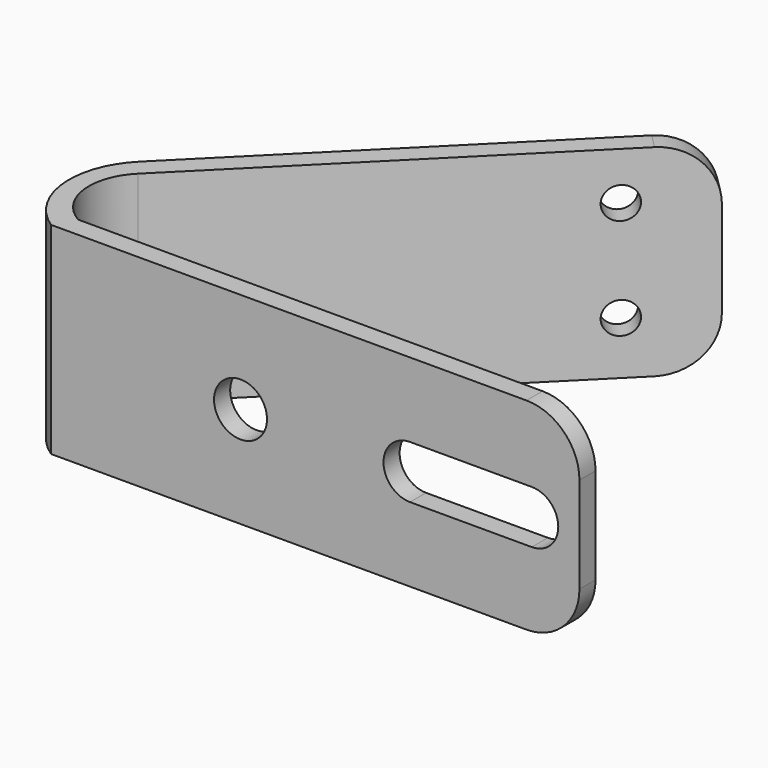
from build123d import *

# Parameters (mm, degrees)
F1_DEPTH = 190.5
F2_R     = 50
F3_R     = 15
F4_DEPTH = 101.6
F5_R     = 25
F6_DEPTH = 101.6


with BuildPart() as f1:
    # F0 (on Top) → F1 (new body)
    with BuildSketch(Plane.XY):
        with BuildLine():
            Line((7.8734308481, 0), (-480.600476265, 0))
            ThreePointArc((-480.600476265, 0), (-507.3725322107, 39.5160081985), (-492.1265691519, 84.7467333078))
            Line((-492.1265691519, 84.7467333078), (-185.7195747427, 391.1537277171))
            Line((-185.7195747427, 391.1537277171), (-199.1546035852, 404.5887565596))
            Line((-199.1546035852, 404.5887565596), (-503.0509646748, 100.69239547))
            ThreePointArc((-503.0509646748, 100.69239547), (-525.4247574788, 38.0082411155), (-491.0743534565, -19))
            Line((-491.0743534565, -19), (7.8734308481, -19))
            Line((7.8734308481, -19), (7.8734308481, 0))
        make_face()
    extrude(amount=F1_DEPTH)

    # F2
    f2_edges = [f1.edges().sort_by_distance(p)[0] for p in [
        (-192.437089, 397.871242, 190.5),
        (-192.437089, 397.871242, 0),
        (7.873431, -9.5, 190.5),
        (7.873431, -9.5, 0),
    ]]
    fillet(f2_edges, radius=F2_R)

    # F3 (on face) → F4 (cut)
    with BuildSketch(Plane(origin=(-301.8716800724, 301.8716800724, 0), x_dir=(-0.7071067812, -0.7071067812, 0), z_dir=(-0.7071067812, 0.7071067812, 0))):
        with Locations((-70.2638826555, 145.5)):
            Circle(F3_R)
        with Locations((-70.2638826555, 50)):
            Circle(F3_R)
    extrude(amount=-F4_DEPTH, mode=Mode.SUBTRACT)

    # F5 (on face) → F6 (cut)
    with BuildSketch(Plane(origin=(0, 0, 0), x_dir=(-1, 0, 0), z_dir=(0, 1, 0))):
        with Locations((312.1265691519, 95.25)):
            Circle(F5_R)
        with BuildLine():
            Line((152.1265691519, 120.25), (37.1265691519, 120.25))
            ThreePointArc((37.1265691519, 120.25), (12.1265691519, 95.25), (37.1265691519, 70.25))
            Line((37.1265691519, 70.25), (152.1265691519, 70.25))
            ThreePointArc((152.1265691519, 70.25), (177.1265691519, 95.25), (152.1265691519, 120.25))
        make_face()
    extrude(amount=-F6_DEPTH, mode=Mode.SUBTRACT)


solid = f1.part
